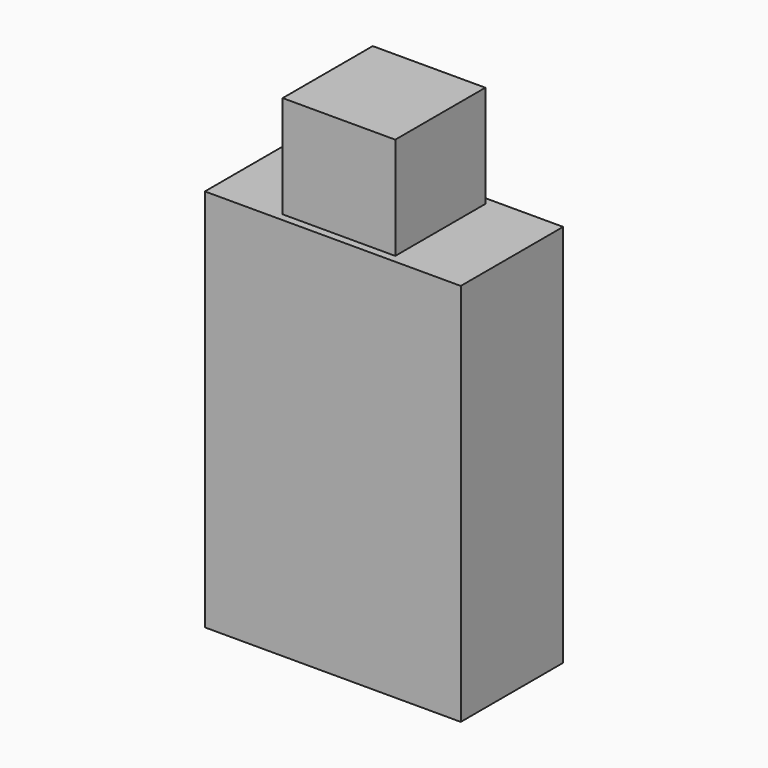
from build123d import *

# Parameters (mm, degrees)
BOX_W              = 10
BOX_H              = 10
BOX_DEPTH          = 10
SKETCH_W           = 4.4
SKETCH_H           = 4.4
PAD_DEPTH          = 4
PAD_FACE4_W        = 10
PAD_FACE4_H        = 10
POCKET_DEPTH       = 2.5
POCKET_FACE5_W     = 10
POCKET_FACE5_H     = 10
POCKET001_DEPTH    = 2.5
SKETCH001_W        = 5
SKETCH001_H        = 10
PAD001_DEPTH       = 10
SKETCH002_W        = 4.4
SKETCH002_H        = 4.4
PAD002_DEPTH       = 4
PAD002_FACE22_W    = 4.4
PAD002_FACE22_H    = 4.4
POCKET002_DEPTH    = 5
POCKET002_FACE16_W = 5
POCKET002_FACE16_H = 10
POCKET003_DEPTH    = 7.5
POCKET003_FACE15_W = 5
POCKET003_FACE15_H = 10
POCKET004_DEPTH    = 2.5
PAD003_DEPTH       = 5


with BuildPart() as part:
    # Box → Box (new body)
    with BuildSketch(Plane.XY):
        with Locations((5, 5)):
            Rectangle(BOX_W, BOX_H)
    extrude(amount=BOX_DEPTH)

    # Sketch (on Face6 of BaseFeature) → Pad (new body)
    with BuildSketch(Plane.XY.offset(10)):
        with Locations((5, 5)):
            Rectangle(SKETCH_W, SKETCH_H)
    extrude(amount=PAD_DEPTH)

    # Pad Face4 → Pocket (cut)
    with BuildSketch(Plane(origin=(5, 10, 5), x_dir=(1, 0, 0), z_dir=(0, 1, 0))):
        Rectangle(PAD_FACE4_W, PAD_FACE4_H)
    extrude(amount=-POCKET_DEPTH, mode=Mode.SUBTRACT)

    # Pocket Face5 → Pocket001 (cut)
    with BuildSketch(Plane(origin=(5, 0, 5), x_dir=(-1, 0, 0), z_dir=(0, -1, 0))):
        Rectangle(POCKET_FACE5_W, POCKET_FACE5_H)
    extrude(amount=-POCKET001_DEPTH, mode=Mode.SUBTRACT)

    # Sketch001 (on Face3 of Pocket001) → Pad001 (join)
    with BuildSketch(Plane(origin=(0, 7.5, 0), x_dir=(-1, 0, 0), z_dir=(0, 1, 0))):
        with Locations((-5, 5)):
            Rectangle(SKETCH001_W, SKETCH001_H)
    extrude(amount=PAD001_DEPTH)

    # Sketch002 (on Face6 of Pad001) → Pad002 (join)
    with BuildSketch(Plane.XY.offset(10)):
        with Locations((5, 12.5)):
            Rectangle(SKETCH002_W, SKETCH002_H)
    extrude(amount=PAD002_DEPTH)

    # Pad002 Face22 → Pocket002 (cut)
    with BuildSketch(Plane(origin=(5, 12.5, 14), x_dir=(0, 1, 0), z_dir=(0, 0, 1))):
        Rectangle(PAD002_FACE22_W, PAD002_FACE22_H)
    extrude(amount=-POCKET002_DEPTH, mode=Mode.SUBTRACT)

    # Pocket002 Face16 → Pocket003 (cut)
    with BuildSketch(Plane(origin=(5, 17.5, 5), x_dir=(1, 0, 0), z_dir=(0, 1, 0))):
        Rectangle(POCKET002_FACE16_W, POCKET002_FACE16_H)
    extrude(amount=-POCKET003_DEPTH, mode=Mode.SUBTRACT)

    # Pocket003 Face15 → Pocket004 (cut)
    with BuildSketch(Plane(origin=(5, 10, 5), x_dir=(1, 0, 0), z_dir=(0, 1, 0))):
        Rectangle(POCKET003_FACE15_W, POCKET003_FACE15_H)
    extrude(amount=-POCKET004_DEPTH, mode=Mode.SUBTRACT)

    # Pocket004 Face4 → Pad003 (add)
    with BuildSketch(Plane(origin=(5, 5, 0), x_dir=(0, -1, 0), z_dir=(0, 0, -1))):
        Polygon((2.5, 5), (-2.5, 5), (-2.5, 2.5), (-2.5, -2.5), (-2.5, -5), (2.5, -5), align=None)
    extrude(amount=PAD003_DEPTH)


solid = part.part
